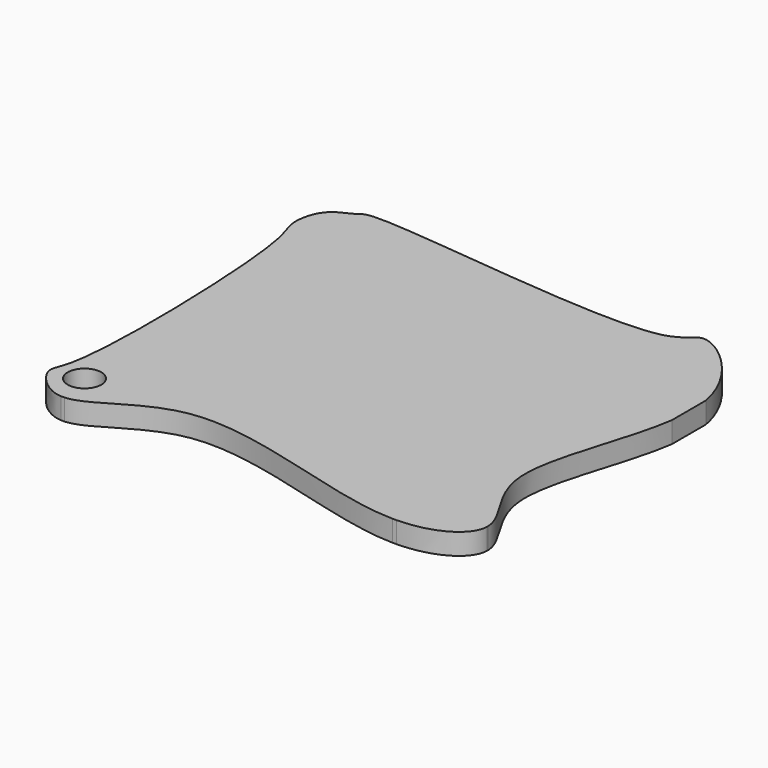
from build123d import *

# Parameters (mm, degrees)
F0_W     = 400
F0_H     = 350
F1_DEPTH = 19
F3_DEPTH = 19.001
F2_R     = 15.1217172487
F4_DEPTH = 19.0010001


with BuildPart() as f1:
    # F0 (on Top) → F1 (new body)
    with BuildSketch(Plane.XY):
        Rectangle(F0_W, F0_H)
    extrude(amount=F1_DEPTH)

    # F2 (on face) → F3 (cut, through all)
    with BuildSketch(Plane.XY.offset(19)):
        with BuildLine():
            Line((139.9984191032, 175), (-143.3382051032, 175))
            add(Edge.make_bspline(
                [(139.9984191032, 175), (132.5654700253, 174.6496124521), (124.8887627653, 140.884546191), (-86.9785932309, 172.7045538974), (-143.3382051032, 175)],
                knots=[0.8349867466, 0.8349867466, 0.8349867466, 0.8349867466, 0.8743157542, 0.9887199032, 0.9887199032, 0.9887199032, 0.9887199032], degree=3))
        make_face()
        with BuildLine():
            Line((200, 175), (140.9513056278, 175))
            add(Edge.make_bspline(
                [(200, 102.6081219316), (192.4685199101, 142.8159812544), (155.7686945176, 174.3308605765), (140.9513056278, 175)],
                knots=[0.7597614207, 0.7597614207, 0.7597614207, 0.7597614207, 0.8333581006, 0.8333581006, 0.8333581006, 0.8333581006], degree=3))
            Line((200, 102.6081219315), (200, 175))
        make_face()
        with BuildLine():
            Line((200, -142.0017472128), (200, 64.5061459425))
            add(Edge.make_bspline(
                [(200, -142.0017472128), (199.4329105241, -124.0235355686), (144.7983687215, -77.937710136), (193.1859977178, 17.0033735573), (200, 64.5061459425)],
                knots=[0.593288087, 0.593288087, 0.593288087, 0.593288087, 0.6582831814, 0.7376899258, 0.7376899258, 0.7376899258, 0.7376899258], degree=3))
        make_face()
        with BuildLine():
            add(Edge.make_bspline(
                [(144.1609859467, -175), (176.8193483932, -174.4875053292), (199.4599303841, -160.0155497317), (200, -143.2522982359)],
                knots=[0.5307493681, 0.5307493681, 0.5307493681, 0.5307493681, 0.59177578, 0.59177578, 0.59177578, 0.59177578], degree=3))
            Line((144.1609859467, -175), (200, -175))
            Line((200, -175), (200, -143.2522982359))
        make_face()
        with BuildLine():
            add(Edge.make_bspline(
                [(-154.202432909, -175), (-132.6486954492, -173.5684929992), (-69.5067362952, -101.5811396609), (80.2937212178, -174.0902233299), (140.4689487721, -175)],
                knots=[0.3482193392, 0.3482193392, 0.3482193392, 0.3482193392, 0.4184935934, 0.5284753271, 0.5284753271, 0.5284753271, 0.5284753271], degree=3))
            Line((-154.202432909, -175), (140.4689487721, -175))
        make_face()
        with BuildLine():
            add(Edge.make_bspline(
                [(-156.8490415812, 175), (-165.3374317263, 174.3856228152), (-167.5028899481, 169.4072833112), (-190.0466375071, 162.6257906862), (-198.0782826841, 130.4278651247), (-179.7620941005, 106.9409813337), (-173.3717158261, -132.4156144029), (-195.0294793917, -149.0567252475), (-171.7834887438, -174.0121083658), (-157.5476378202, -175)],
                knots=[0, 0, 0, 0, 0.0283137694, 0.0620220617, 0.1011380618, 0.1452969745, 0.2610584813, 0.2975065975, 0.3445581979, 0.3445581979, 0.3445581979, 0.3445581979], degree=3))
            Line((-156.8490415812, 175), (-200, 175))
            Line((-200, 175), (-200, -175))
            Line((-200, -175), (-157.5476378202, -175))
        make_face()
    extrude(amount=-F3_DEPTH, mode=Mode.SUBTRACT)

    # F2 (on face) → F4 (cut, through all)
    with BuildSketch(Plane.XY.offset(19)):
        with Locations((-161.2850278616, -143.6447948217)):
            Circle(F2_R)
    extrude(amount=-F4_DEPTH, mode=Mode.SUBTRACT)


solid = f1.part
